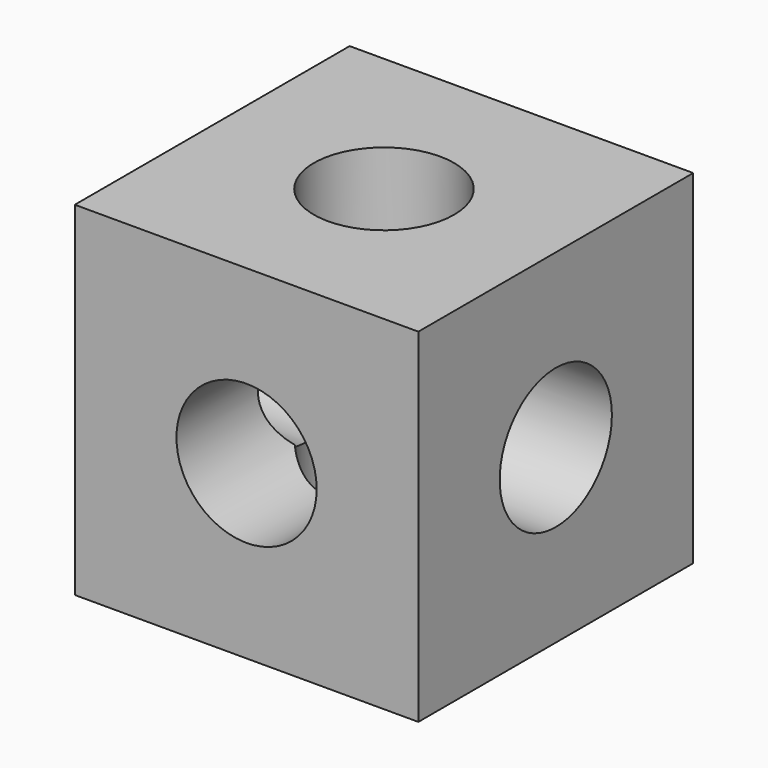
from build123d import *

# Parameters (mm, degrees)
F0_W          = 24.5
F0_H          = 24.5
F0_R          = 5
F1_DEPTH      = 12.25
F2_R          = 5
F3_DEPTH      = 12.251
F3_DEPTH_BACK = 12.251
F4_R          = 5
F5_DEPTH      = 12.251
F5_DEPTH_BACK = 12.251


with BuildPart() as f1:
    # F0 (on Front) → F1 (new body, symmetric)
    with BuildSketch(Plane.XZ):
        Rectangle(F0_W, F0_H)
        Circle(F0_R, mode=Mode.SUBTRACT)
    extrude(amount=F1_DEPTH, both=True)

    # F2 (on Right) → F3 (cut, two sides)
    with BuildSketch(Plane.YZ) as f3_sk:
        Circle(F2_R)
    extrude(amount=-F3_DEPTH, mode=Mode.SUBTRACT)
    extrude(f3_sk.sketch, amount=F3_DEPTH_BACK, mode=Mode.SUBTRACT)

    # F4 (on Top) → F5 (cut, two sides)
    with BuildSketch(Plane.XY) as f5_sk:
        Circle(F4_R)
    extrude(amount=-F5_DEPTH, mode=Mode.SUBTRACT)
    extrude(f5_sk.sketch, amount=F5_DEPTH_BACK, mode=Mode.SUBTRACT)


solid = f1.part
